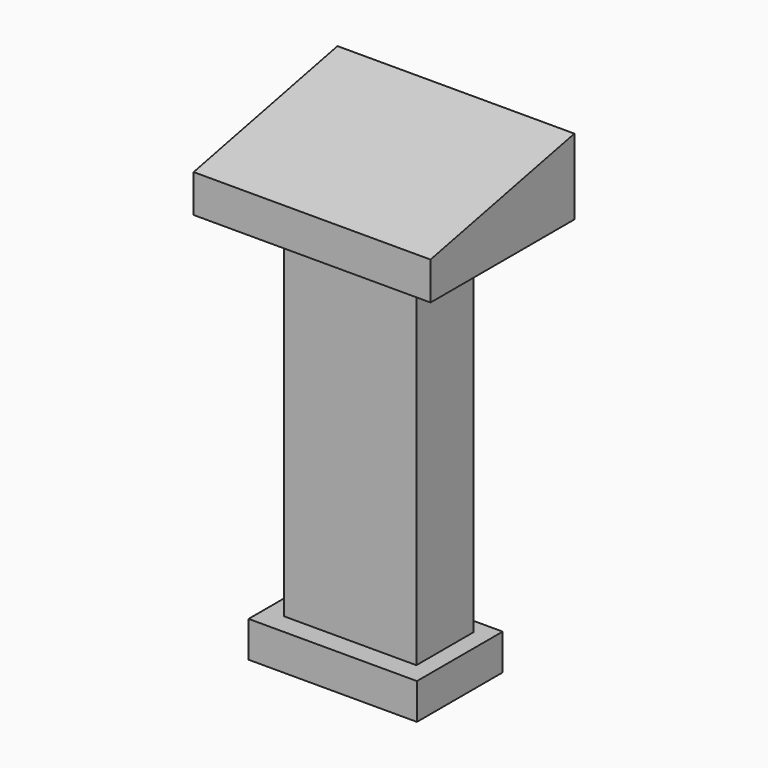
from build123d import *

# Parameters (mm, degrees)
F0_W     = 66.933575
F0_H     = 21.369922
F1_DEPTH = 50.8
F3_DEPTH = 76.2
F4_W     = 37.397362
F4_H     = 20.0979
F5_DEPTH = 101.6
F6_W     = 47.573516
F6_H     = 30.274053
F7_DEPTH = 10.16


with BuildPart() as f1:
    # F0 (on Front) → F1 (new body)
    with BuildSketch(Plane.XZ):
        with Locations((-1.971668, 8.522528)):
            Rectangle(F0_W, F0_H)
    extrude(amount=-F1_DEPTH)

    # F2 (on face) → F3 (cut)
    with BuildSketch(Plane(origin=(-35.438456, 0, 0), x_dir=(0, -1, 0), z_dir=(-1, 0, 0))):
        Polygon((0, 19.207489), (-50.8, 19.207489), (0, 8.522528), align=None)
    extrude(amount=-F3_DEPTH, mode=Mode.SUBTRACT)

    # F4 (on face) → F5 (join)
    with BuildSketch(Plane(origin=(0, 0, -2.162433), x_dir=(1, 0, 0), z_dir=(0, 0, -1))):
        with Locations((-3.30725, -25.185978)):
            Rectangle(F4_W, F4_H)
    extrude(amount=F5_DEPTH)

    # F6 (on face) → F7 (join)
    with BuildSketch(Plane(origin=(0, 0, -103.762433), x_dir=(1, 0, 0), z_dir=(0, 0, -1))):
        with Locations((-3.561654, -24.422762)):
            Rectangle(F6_W, F6_H)
    extrude(amount=F7_DEPTH)


solid = f1.part
